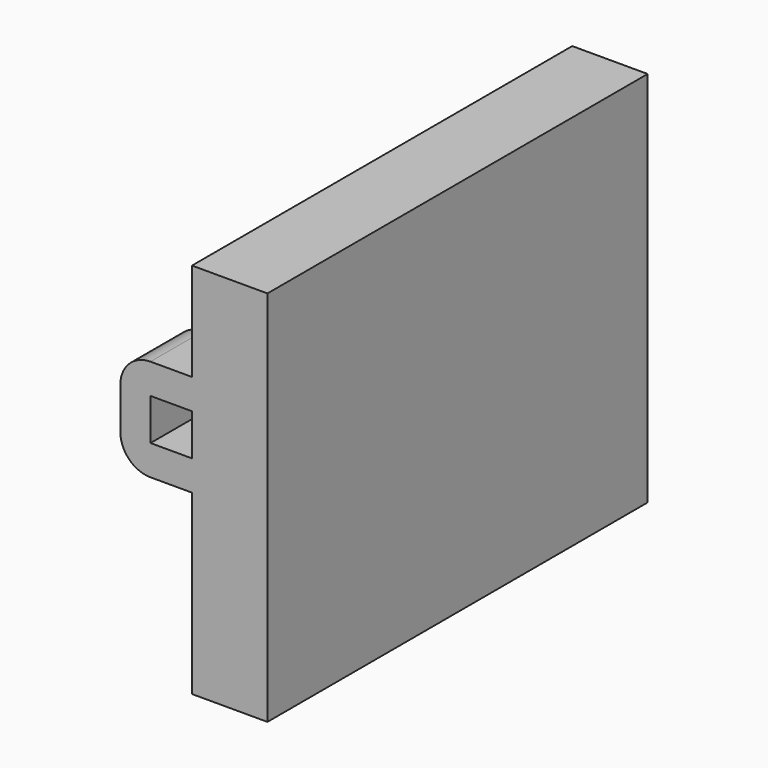
from build123d import *

# Parameters (mm, degrees)
EXTRUDE002_DEPTH = 9.1
SKETCH006_W      = 2.2
SKETCH006_H      = 2.2
EXTRUDE006_DEPTH = 12.6
SKETCH_W         = 4
SKETCH_H         = 20
EXTRUDE_DEPTH    = 12.6


with BuildPart() as extrude002_step_down:
    # Sketch002 → Extrude002 (new body, symmetric)
    with BuildSketch(Plane.XZ):
        Polygon((0, 2.6), (2.2, 2.6), (2.2, 16), (0, 16), (-3.8, 16), (-3.8, 2.6), align=None)
    extrude(amount=EXTRUDE002_DEPTH, both=True)


with BuildPart() as obj1:
    # Sketch006 → Extrude006 (new body, symmetric)
    with BuildSketch(Plane.XZ):
        with BuildLine():
            Line((-3.8, 13.2), (-3.8, 11))
            ThreePointArc((-3.8, 11), (-3.331371, 9.868629), (-2.2, 9.4))
            Line((-2.2, 9.4), (1.6, 9.4))
            Line((1.6, 9.4), (1.6, 14.8))
            Line((1.6, 14.8), (-2.2, 14.8))
            ThreePointArc((-2.2, 14.8), (-3.331371, 14.331371), (-3.8, 13.2))
        make_face()
        with Locations((-1.1, 12.1)):
            Rectangle(SKETCH006_W, SKETCH006_H, mode=Mode.SUBTRACT)
    extrude(amount=EXTRUDE006_DEPTH, both=True)


with BuildPart() as cut:
    # Sketch → Extrude (new body, symmetric)
    with BuildSketch(Plane.XZ):
        with Locations((2, 10)):
            Rectangle(SKETCH_W, SKETCH_H)
    extrude(amount=EXTRUDE_DEPTH, both=True)

    # Fusion: union obj1
    add(obj1.part)

    # Cut: cut Extrude002 - step -down
    add(extrude002_step_down.part, mode=Mode.SUBTRACT)


solid = cut.part
